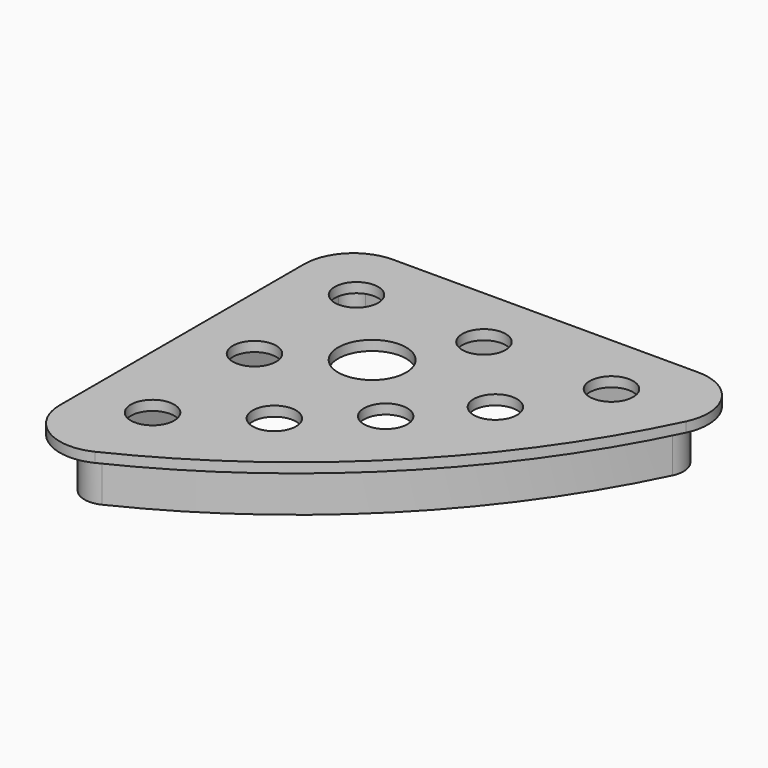
from build123d import *

# Parameters (mm, degrees)
F1_DEPTH = 12.7
F3_DEPTH = 2.54
F4_R     = 5.588
F4_R_2   = 8.763
F5_DEPTH = 25.4


with BuildPart() as f1:
    # F0 (on Top) → F1 (new body)
    with BuildSketch(Plane.XY):
        with BuildLine():
            ThreePointArc((0.508, -85.5526443698), (3.4826484531, -90.931259613), (9.6196541528, -91.2706655607))
            ThreePointArc((9.6196541528, -91.2706655607), (57.3578547677, -57.3578547677), (91.2706655607, -9.6196541528))
            ThreePointArc((91.2706655607, -9.6196541528), (90.931259613, -3.4826484531), (85.5526443698, -0.508))
            Line((85.5526443698, -0.508), (6.858, -0.508))
            ThreePointArc((6.858, -0.508), (2.3678719395, -2.3678719395), (0.508, -6.858))
            Line((0.508, -6.858), (0.508, -85.5526443698))
        make_face()
        with BuildLine():
            ThreePointArc((88.9834570843, -8.5149924917), (55.5618035435, -55.5618035435), (8.5149924917, -88.9834570843))
            ThreePointArc((8.5149924917, -88.9834570843), (4.8327890719, -88.7798135157), (3.048, -85.5526443698))
            Line((3.048, -85.5526443698), (3.048, -6.858))
            ThreePointArc((3.048, -6.858), (4.1639231637, -4.1639231637), (6.858, -3.048))
            Line((6.858, -3.048), (85.5526443698, -3.048))
            ThreePointArc((85.5526443698, -3.048), (88.7798135157, -4.8327890719), (88.9834570843, -8.5149924917))
        make_face(mode=Mode.SUBTRACT)
    extrude(amount=F1_DEPTH)

    # F2 (on face) → F3 (join)
    with BuildSketch(Plane.XY.offset(12.7)):
        with BuildLine():
            Line((85.5526443698, 5.842), (6.858, 5.842))
            ThreePointArc((6.858, 5.842), (-2.1222561211, 2.1222561211), (-5.842, -6.858))
            Line((-5.842, -6.858), (-5.842, -85.5526443698))
            ThreePointArc((-5.842, -85.5526443698), (0.1072969063, -96.3098748563), (12.3813083055, -96.9886867517))
            ThreePointArc((12.3813083055, -96.9886867517), (61.8479828282, -61.8479828282), (96.9886867517, -12.3813083055))
            ThreePointArc((96.9886867517, -12.3813083055), (96.3098748563, -0.1072969063), (85.5526443698, 5.842))
        make_face()
        with BuildLine():
            ThreePointArc((9.6196541528, -91.2706655607), (3.4826484531, -90.931259613), (0.508, -85.5526443698))
            Line((0.508, -85.5526443698), (0.508, -6.858))
            ThreePointArc((0.508, -6.858), (2.3678719395, -2.3678719395), (6.858, -0.508))
            Line((6.858, -0.508), (85.5526443698, -0.508))
            ThreePointArc((85.5526443698, -0.508), (90.931259613, -3.4826484531), (91.2706655607, -9.6196541528))
            ThreePointArc((91.2706655607, -9.6196541528), (57.3578547677, -57.3578547677), (9.6196541528, -91.2706655607))
        make_face(mode=Mode.SUBTRACT)
        with BuildLine():
            Line((0.508, -6.858), (0.508, -85.5526443698))
            ThreePointArc((0.508, -85.5526443698), (3.4826484531, -90.931259613), (9.6196541528, -91.2706655607))
            ThreePointArc((9.6196541528, -91.2706655607), (57.3578547677, -57.3578547677), (91.2706655607, -9.6196541528))
            ThreePointArc((91.2706655607, -9.6196541528), (90.931259613, -3.4826484531), (85.5526443698, -0.508))
            Line((85.5526443698, -0.508), (6.858, -0.508))
            ThreePointArc((6.858, -0.508), (2.3678719395, -2.3678719395), (0.508, -6.858))
        make_face()
        with BuildLine():
            ThreePointArc((85.5526443698, -3.048), (88.7798135157, -4.8327890719), (88.9834570843, -8.5149924917))
            ThreePointArc((88.9834570843, -8.5149924917), (55.5618035435, -55.5618035435), (8.5149924917, -88.9834570843))
            ThreePointArc((8.5149924917, -88.9834570843), (4.8327890719, -88.7798135157), (3.048, -85.5526443698))
            Line((3.048, -85.5526443698), (3.048, -6.858))
            ThreePointArc((3.048, -6.858), (4.1639231637, -4.1639231637), (6.858, -3.048))
            Line((6.858, -3.048), (85.5526443698, -3.048))
        make_face(mode=Mode.SUBTRACT)
        with BuildLine():
            ThreePointArc((8.5149924917, -88.9834570843), (55.5618035435, -55.5618035435), (88.9834570843, -8.5149924917))
            ThreePointArc((88.9834570843, -8.5149924917), (88.7798135157, -4.8327890719), (85.5526443698, -3.048))
            Line((85.5526443698, -3.048), (6.858, -3.048))
            ThreePointArc((6.858, -3.048), (4.1639231637, -4.1639231637), (3.048, -6.858))
            Line((3.048, -6.858), (3.048, -85.5526443698))
            ThreePointArc((3.048, -85.5526443698), (4.8327890719, -88.7798135157), (8.5149924917, -88.9834570843))
        make_face()
    extrude(amount=F3_DEPTH)

    # F4 (on face) → F5 (cut)
    with BuildSketch(Plane.XY.offset(15.24)):
        with Locations((10.7421888637, -10.7421888637)):
            Circle(F4_R)
        with Locations((30.9239914141, -30.9239914141)):
            Circle(F4_R_2)
        with Locations((43.5884171282, -10.7421888637)):
            Circle(F4_R)
        with Locations((10.7421888637, -43.5884171282)):
            Circle(F4_R)
        with Locations((10.7421888637, -76.4346453927)):
            Circle(F4_R)
        with Locations((31.4632623863, -63.1055415565)):
            Circle(F4_R)
        with Locations((48.3775986466, -48.3775986466)):
            Circle(F4_R)
        with Locations((63.1055415565, -31.4632623863)):
            Circle(F4_R)
        with Locations((76.4346453927, -10.7421888637)):
            Circle(F4_R)
    extrude(amount=-F5_DEPTH, mode=Mode.SUBTRACT)


solid = f1.part
